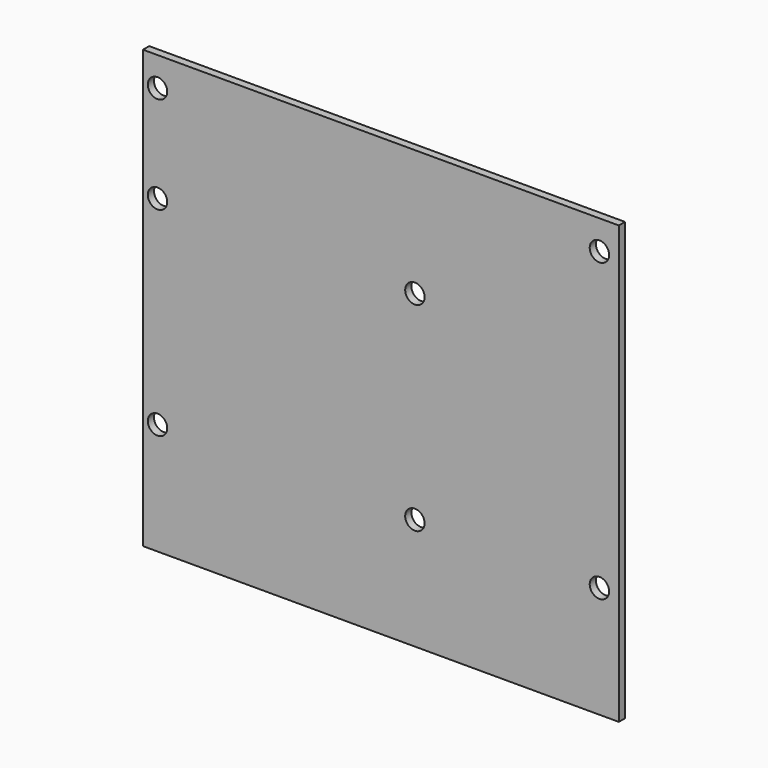
from build123d import *

# Parameters (mm, degrees)
F0_W     = 98
F0_H     = 90
F1_DEPTH = 1.6
F2_R     = 2
F3_DEPTH = 25
F4_W     = 40
F4_H     = 5
F5_DEPTH = 14


with BuildPart() as f1:
    # F0 (on Front) → F1 (new body)
    with BuildSketch(Plane.XZ):
        Rectangle(F0_W, F0_H)
    extrude(amount=F1_DEPTH)

    # F2 (on face) → F3 (cut)
    with BuildSketch(Plane.XZ.offset(1.6)):
        with Locations((-46, 39)):
            Circle(F2_R)
        with Locations((-46, 19)):
            Circle(F2_R)
        with Locations((7, 19)):
            Circle(F2_R)
        with Locations((45, 39)):
            Circle(F2_R)
        with Locations((-46, -22)):
            Circle(F2_R)
        with Locations((7, -22)):
            Circle(F2_R)
        with Locations((45, -22)):
            Circle(F2_R)
    extrude(amount=-F3_DEPTH, mode=Mode.SUBTRACT)

    # F4 (on face) → F5 (join)
    with BuildSketch(Plane(origin=(0, 0, 0), x_dir=(-1, 0, 0), z_dir=(0, 1, 0))):
        with Locations((19.5, 18.5)):
            Rectangle(F4_W, F4_H)
        with Locations((19.5, -22.5)):
            Rectangle(F4_W, F4_H)
    extrude(amount=F5_DEPTH)


solid = f1.part
